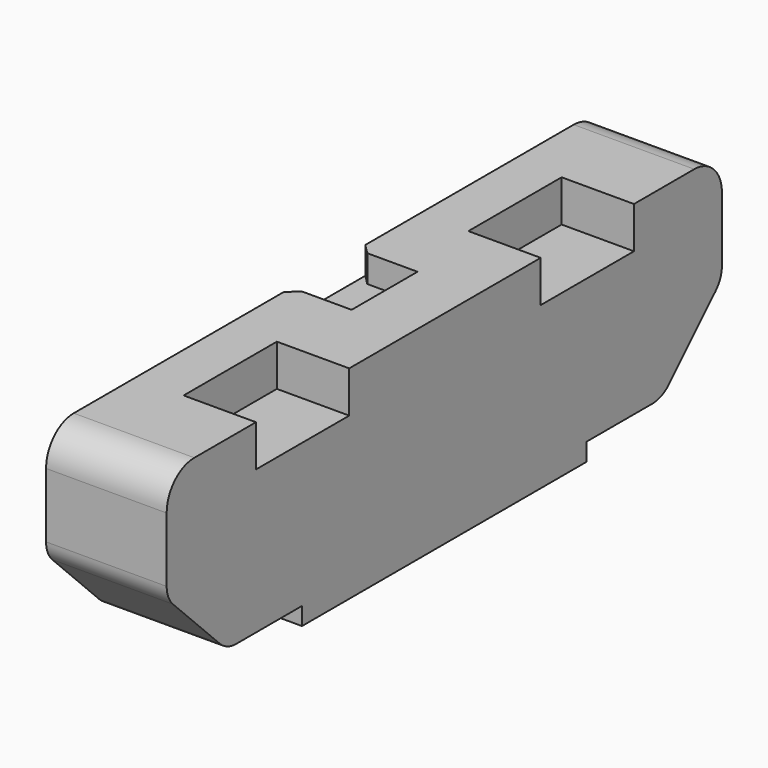
from build123d import *

# Parameters (mm, degrees)
PAD009_DEPTH    = 1.8
PAD008_DEPTH    = 1.2
SKETCH018_W     = 0.214
SKETCH018_H     = 0.247
POCKET007_DEPTH = 0.119
SKETCH019_W     = 0.72
SKETCH019_H     = 1.16
POCKET008_DEPTH = 0.414
POCKET009_DEPTH = 0.27


with BuildPart() as pad009:
    # Sketch017 → Pad009 (new body, symmetric)
    with BuildSketch(Plane.XZ):
        Polygon((1.529, 0), (1.529, 0.264), (1.708, 0.264), (1.708, 0.145), (2.358, 0.145), (2.358, 0), align=None)
    extrude(amount=PAD009_DEPTH, both=True)


with BuildPart() as pocket009:
    # Sketch016 → Pad008 (new body)
    with BuildSketch(Plane(origin=(1.1499999635, -0.0083336435, -0.0078429583), x_dir=(0, 1, 0), z_dir=(1, 0, 0))):
        with BuildLine():
            Line((-3.1093336572, 2.1718425317), (3.1093336572, 2.1718425317))
            ThreePointArc((3.4533336572, 1.8278425317), (3.35257839, 2.0710872645), (3.1093336572, 2.1718425317))
            Line((3.4533336572, 1.8278425317), (3.4533336572, 1.1848425317))
            ThreePointArc((3.3757169542, 0.9974592347), (3.4331617333, 1.0834314222), (3.4533336572, 1.1848425317))
            Line((2.7923538598, 0.4140961402), (3.3757169542, 0.9974592347))
            ThreePointArc((2.588, 0.32945), (2.698595512, 0.3514488151), (2.7923538598, 0.4140961402))
            Line((1.77, 0.32945), (2.588, 0.32945))
            Line((1.77, 0.05045), (1.77, 0.32945))
            Line((1.77, 0.05045), (-1.77, 0.05045))
            Line((-1.77, 0.05045), (-1.77, 0.32945))
            Line((-1.77, 0.32945), (-2.588, 0.32945))
            ThreePointArc((-2.7923538598, 0.4140961402), (-2.698595512, 0.3514488151), (-2.588, 0.32945))
            Line((-3.3757169542, 0.9974592347), (-2.7923538598, 0.4140961402))
            ThreePointArc((-3.4533336572, 1.1848425317), (-3.4331617333, 1.0834314222), (-3.3757169542, 0.9974592347))
            Line((-3.4533336572, 1.8278425317), (-3.4533336572, 1.1848425317))
            ThreePointArc((-3.1093336572, 2.1718425317), (-3.35257839, 2.0710872645), (-3.4533336572, 1.8278425317))
        make_face()
    extrude(amount=PAD008_DEPTH)

    # Cut: cut Pad009
    add(pad009.part, mode=Mode.SUBTRACT)

    # Sketch018 (on Face19 of Cut) → Pocket007 (cut)
    with BuildSketch(Plane(origin=(0, 0, 0.145), x_dir=(1, 0, 0), z_dir=(0, 0, -1))):
        with Locations((1.792, -1.3005)):
            Rectangle(SKETCH018_W, SKETCH018_H)
        with Locations((1.792, -0.6435)):
            Rectangle(SKETCH018_W, SKETCH018_H)
        with Locations((1.792, 0)):
            Rectangle(SKETCH018_W, SKETCH018_H)
        with Locations((1.792, 0.6435)):
            Rectangle(SKETCH018_W, SKETCH018_H)
        with Locations((1.792, 1.3005)):
            Rectangle(SKETCH018_W, SKETCH018_H)
    extrude(amount=-POCKET007_DEPTH, mode=Mode.SUBTRACT)

    # Sketch019 (on Face2 of Pocket007) → Pocket008 (cut)
    with BuildSketch(Plane.XY.offset(2.1639995734)):
        with Locations((1.9899999635, -1.771)):
            Rectangle(SKETCH019_W, SKETCH019_H)
        with Locations((1.9899999635, 1.771)):
            Rectangle(SKETCH019_W, SKETCH019_H)
    extrude(amount=-POCKET008_DEPTH, mode=Mode.SUBTRACT)

    # Sketch020 (on Face2 of Pocket008) → Pocket009 (cut)
    with BuildSketch(Plane.XY.offset(2.1639995734)):
        Polygon((1.249, 0.41), (1.749, 0.41), (1.749, -0.41), (1.249, -0.41), (1.146, -0.513), (1.146, 0.513), align=None)
    extrude(amount=-POCKET009_DEPTH, mode=Mode.SUBTRACT)


solid = pocket009.part
